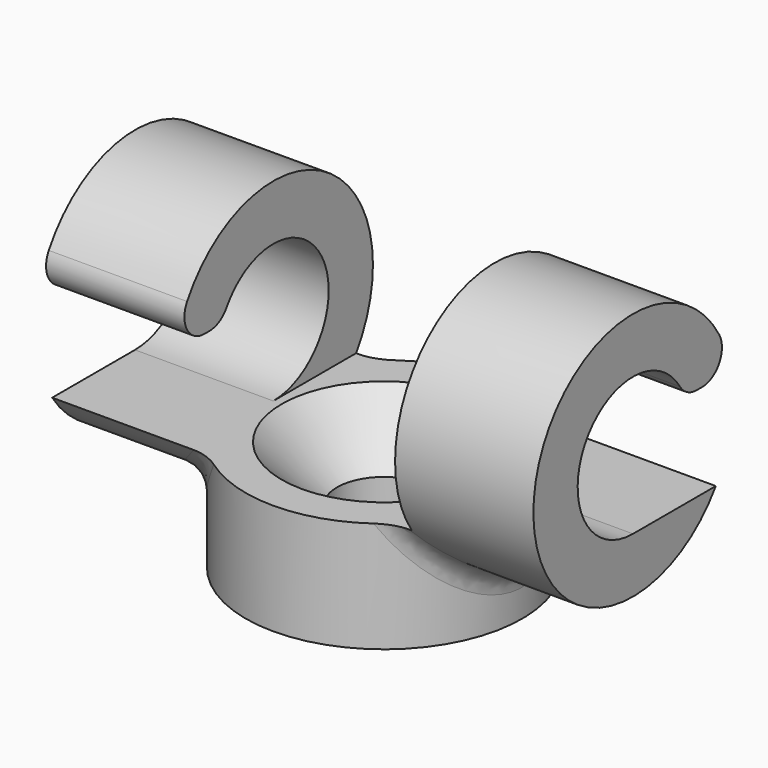
from build123d import *

# Parameters (mm, degrees)
SKETCH001_R        = 4.5
SKETCH001_R_2      = 2.5
PAD001_DEPTH       = 9
SKETCH_W           = 8
SKETCH_H           = 7
POCKET_DEPTH       = 4.5
SKETCH006_R        = 5
PAD_DEPTH          = 4
SKETCH004_W        = 4.5
SKETCH004_H        = 3.4
POCKET001_DEPTH    = 5
POLARPATTERN_COUNT = 2
SKETCH007_R        = 1.7
POCKET002_DEPTH    = 4
FILLET_R           = 1
CHAMFER_SIZE       = 2
FILLET001_R        = 0.9


with BuildPart() as part:
    # Sketch001 → Pad001 (new body, symmetric)
    with BuildSketch(Plane.YZ):
        with Locations((0, 4.5)):
            Circle(SKETCH001_R)
        with Locations((0, 4.5)):
            Circle(SKETCH001_R_2, mode=Mode.SUBTRACT)
    extrude(amount=PAD001_DEPTH, both=True)

    # Sketch → Pocket (cut, symmetric)
    with BuildSketch(Plane.XZ):
        with Locations((0, 5.5)):
            Rectangle(SKETCH_W, SKETCH_H)
    extrude(amount=POCKET_DEPTH, both=True, mode=Mode.SUBTRACT)

    # Sketch006 → Pad (join)
    with BuildSketch(Plane(origin=(0, 0, 2), x_dir=(0, -1, 0), z_dir=(0, 0, 1))):
        Circle(SKETCH006_R)
    extrude(amount=-PAD_DEPTH)

    # Sketch004 → Pocket001 (cut)
    with BuildSketch(Plane.YZ.offset(9)):
        with Locations((2.25, 3.7)):
            Rectangle(SKETCH004_W, SKETCH004_H)
    pocket001 = extrude(amount=-POCKET001_DEPTH, mode=Mode.SUBTRACT)

    # PolarPattern: Pocket001 ×2 about axis
    polarpattern_axis = Axis((0, 0, 0), (0, 0, 1))
    for i in range(1, POLARPATTERN_COUNT):
        add(pocket001.rotate(polarpattern_axis, i * 360 / POLARPATTERN_COUNT), mode=Mode.SUBTRACT)

    # Sketch007 (on Face9 of Pad) → Pocket002 (cut)
    with BuildSketch(Plane(origin=(0, 0, 2), x_dir=(0, -1, 0), z_dir=(0, 0, 1))):
        Circle(SKETCH007_R)
    extrude(amount=-POCKET002_DEPTH, mode=Mode.SUBTRACT)

    # Fillet
    fillet_edges = [part.edges().sort_by_distance(p)[0] for p in [
        (-5, 0, 0),
        (5, 0, 0),
    ]]
    fillet(fillet_edges, radius=FILLET_R)

    # Chamfer
    chamfer_edges = [part.edges().sort_by_distance(p)[0] for p in [
        (1.202082, -1.202082, 2),
    ]]
    chamfer(chamfer_edges, length=CHAMFER_SIZE)

    # Fillet001
    fillet001_edges = [part.edges().sort_by_distance(p)[0] for p in [
        (6.5, 2.332381, 5.4),
        (6.5, 4.409082, 5.4),
        (-6.5, -2.332381, 5.4),
        (-6.5, -4.409082, 5.4),
    ]]
    fillet(fillet001_edges, radius=FILLET001_R)


solid = part.part
